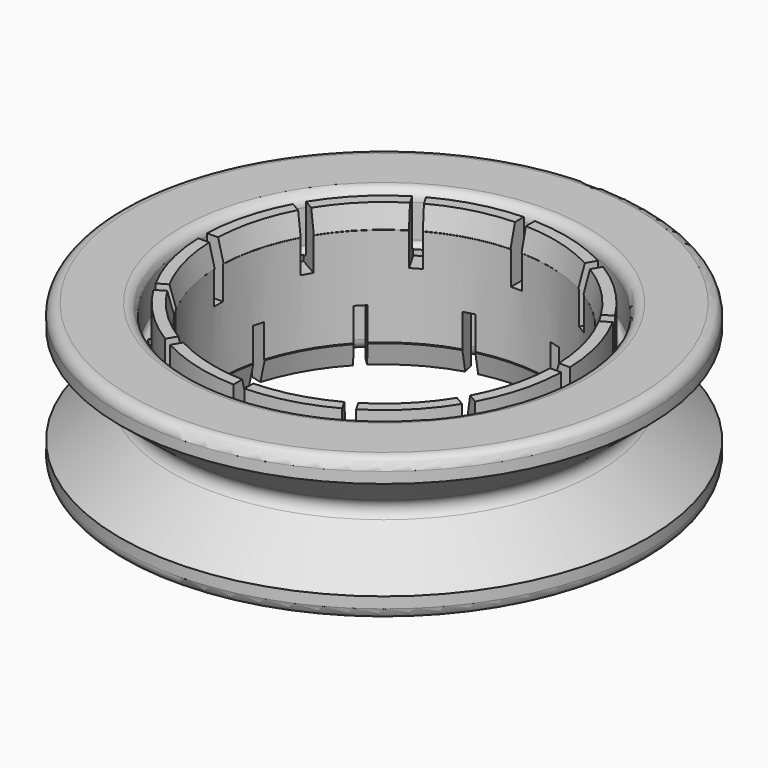
from build123d import *

# Parameters (mm, degrees)
SKETCH001_W           = 34
SKETCH001_H           = 1
POCKET_DEPTH          = 18
POLARPATTERN_COUNT    = 12
POCKET001_DEPTH       = 18
POLARPATTERN001_COUNT = 12
FILLET_R              = 1
FILLET001_R           = 1
FILLET002_R           = 1


with BuildPart() as part:
    # Sketch → Revolution (revolve)
    with BuildSketch(Plane.XZ):
        with BuildLine():
            Line((17.5, -6.5), (24, -6.5))
            Line((24, -6.5), (24, -4.5))
            Line((24, -4.5), (19.373317, -0.779274))
            ThreePointArc((19.373317, 0.779274), (19, 0), (19.373317, -0.779274))
            Line((19.373317, 0.779274), (24, 4.5))
            Line((24, 4.5), (24, 6.5))
            Line((24, 6.5), (17.5, 6.5))
            Line((17.5, 6.5), (17.5, 2.5))
            ThreePointArc((16.5, 2.5), (17, 2), (17.5, 2.5))
            Line((16.5, 6.5), (16.5, 2.5))
            Line((16.5, 6.5), (15.5, 6.5))
            Line((15, 4.55), (15.5, 6.5))
            Line((15.05, 4.5), (15, 4.55))
            Line((15.05, -4.5), (15.05, 4.5))
            Line((15, -4.55), (15.05, -4.5))
            Line((15.5, -6.5), (15, -4.55))
            Line((16.5, -6.5), (15.5, -6.5))
            Line((16.5, -6.5), (16.5, -2.5))
            ThreePointArc((17.5, -2.5), (17, -2), (16.5, -2.5))
            Line((17.5, -6.5), (17.5, -2.5))
        make_face()
    revolve(axis=Axis((0, 0, 0), (0, 0, 1)))

    # Sketch001 → Pocket (cut)
    with BuildSketch(Plane.XY.offset(1.5)):
        Rectangle(SKETCH001_W, SKETCH001_H)
    pocket = extrude(amount=POCKET_DEPTH, mode=Mode.SUBTRACT)

    # PolarPattern: Pocket ×12 about axis
    polarpattern_axis = Axis((0, 0, 1.5), (0, 0, 1))
    for i in range(1, POLARPATTERN_COUNT):
        add(pocket.rotate(polarpattern_axis, i * 360 / POLARPATTERN_COUNT), mode=Mode.SUBTRACT)

    # Sketch002 → Pocket001 (cut)
    with BuildSketch(Plane.XY.offset(-1.5)):
        Polygon((-16.442643, -3.888155), (16.398835, 4.911693), (16.657654, 3.945767), (-16.183824, -4.854081), align=None)
    pocket001 = extrude(amount=-POCKET001_DEPTH, mode=Mode.SUBTRACT)

    # PolarPattern001: Pocket001 ×12 about axis
    polarpattern001_axis = Axis((0, 0, -1.5), (0, 0, 1))
    for i in range(1, POLARPATTERN001_COUNT):
        add(pocket001.rotate(polarpattern001_axis, i * 360 / POLARPATTERN001_COUNT), mode=Mode.SUBTRACT)

    # Fillet
    fillet_edges = [part.edges().sort_by_distance(p)[0] for p in [
        (-17.5, 0, -6.5),
    ]]
    fillet(fillet_edges, radius=FILLET_R)

    # Fillet001
    fillet001_edges = [part.edges().sort_by_distance(p)[0] for p in [
        (-17.5, 0, 6.5),
    ]]
    fillet(fillet001_edges, radius=FILLET001_R)

    # Fillet002
    fillet002_edges = [part.edges().sort_by_distance(p)[0] for p in [
        (-24, 0, -6.5),
        (-24, 0, 6.5),
    ]]
    fillet(fillet002_edges, radius=FILLET002_R)


solid = part.part
